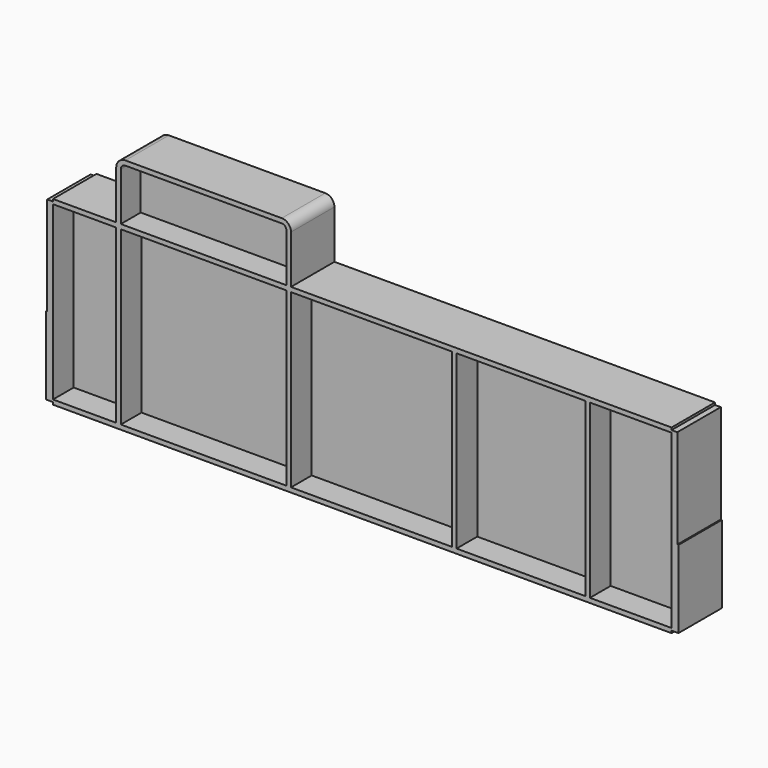
from build123d import *

# Parameters (mm, degrees)
F0_W      = 3492.5
F0_H      = 1000.252
F1_DEPTH  = 7.112
F3_DEPTH  = 149.987
F4_W      = 6.35
F4_H      = 558.8
F5_DEPTH  = 152.4
F6_W      = 69.6651035309
F6_H      = 32.1860781174
F6_W_2    = 61.0528284073
F6_H_2    = 46.4129915695
F6_W_3    = 67.1003156662
F6_H_3    = 41.8257090867
F6_W_4    = 72.7439218521
F6_H_4    = 49.2695767105
F7_DEPTH  = 299.975
F9_DEPTH  = 12.7
F10_DEPTH = 149.987
F8_W      = 25.4
F8_H      = 949.452
F11_DEPTH = 149.987


with BuildPart() as f1:
    # F0 (on Front) → F1 (new body, symmetric)
    with BuildSketch(Plane.XZ):
        with Locations((0, 500.126)):
            Rectangle(F0_W, F0_H)
    extrude(amount=F1_DEPTH, both=True)

    # F2 (on Front) → F3 (join, symmetric)
    with BuildSketch(Plane.XZ):
        Polygon((-1708.15, 12.7), (-1708.15, 0), (1708.15, 0), (1708.15, 12.7), (1708.15, 25.4), (-1708.15, 25.4), align=None)
        Polygon((-1746.25, 12.7), (-1708.15, 12.7), (-1708.15, 25.4), (-1708.15, 974.852), (-1708.15, 987.552), (-1746.25, 987.552), align=None)
        Polygon((1708.15, 25.4), (1708.15, 12.7), (1746.25, 12.7), (1746.25, 987.552), (1708.15, 987.552), (1708.15, 974.852), align=None)
        Polygon((-1708.15, 987.552), (-1708.15, 974.852), (1708.15, 974.852), (1708.15, 987.552), (1708.15, 1000.252), (-1708.15, 1000.252), align=None)
    extrude(amount=F3_DEPTH, both=True)

    # F4 (on Front) → F5 (cut, symmetric)
    with BuildSketch(Plane.XZ):
        with Locations((-1743.075, 720.852)):
            Rectangle(F4_W, F4_H)
        with Locations((1743.075, 720.852)):
            Rectangle(F4_W, F4_H)
    extrude(amount=F5_DEPTH, both=True, mode=Mode.SUBTRACT)

    # F6 (on face) → F7 (cut, through all)
    with BuildSketch(Plane.XZ.offset(149.987)):
        with Locations((-1742.9825517654, 1003.6450390587)):
            Rectangle(F6_W, F6_H)
        with Locations((1738.6764142036, 1010.7584957848)):
            Rectangle(F6_W_2, F6_H_2)
        with Locations((1741.7001578331, -8.2128545433)):
            Rectangle(F6_W_3, F6_H_3)
        with Locations((-1744.5219609261, -11.9347883552)):
            Rectangle(F6_W_4, F6_H_4)
    extrude(amount=-F7_DEPTH, mode=Mode.SUBTRACT)

    # F8 (on Front) → F9 (join, symmetric)
    with BuildSketch(Plane.XZ):
        with BuildLine():
            Line((-1333.5, 1266.952), (-1333.5, 974.852))
            Line((-1333.5, 974.852), (-419.1, 974.852))
            Line((-419.1, 974.852), (-419.1, 1266.952))
            ThreePointArc((-419.1, 1266.952), (-426.5394877579, 1284.9125122421), (-444.5, 1292.352))
            Line((-444.5, 1292.352), (-1308.1, 1292.352))
            ThreePointArc((-1308.1, 1292.352), (-1326.0605122421, 1284.9125122421), (-1333.5, 1266.952))
        make_face()
    extrude(amount=F9_DEPTH, both=True)

    # F8 (on Front) → F10 (join, symmetric)
    with BuildSketch(Plane.XZ):
        with BuildLine():
            Line((-1358.9, 1266.952), (-1358.9, 974.852))
            Line((-1358.9, 974.852), (-1333.5, 974.852))
            Line((-1333.5, 974.852), (-1333.5, 1266.952))
            Line((-1333.5, 1266.952), (-1333.5, 1310.9460905122))
            ThreePointArc((-1333.5, 1310.9460905122), (-1352.0940905122, 1292.352), (-1358.9, 1266.952))
        make_face()
        with BuildLine():
            Line((-419.1, 1266.952), (-419.1, 974.852))
            Line((-419.1, 974.852), (-393.7, 974.852))
            Line((-393.7, 974.852), (-393.7, 1266.952))
            ThreePointArc((-393.7, 1266.952), (-408.5789755157, 1302.8730244843), (-444.5, 1317.752))
            Line((-444.5, 1317.752), (-1308.1, 1317.752))
            ThreePointArc((-1308.1, 1317.752), (-1321.2480074912, 1316.0210319755), (-1333.5, 1310.9460905122))
            Line((-1333.5, 1310.9460905122), (-1333.5, 1266.952))
            ThreePointArc((-1333.5, 1266.952), (-1326.0605122421, 1284.9125122421), (-1308.1, 1292.352))
            Line((-1308.1, 1292.352), (-444.5, 1292.352))
            ThreePointArc((-444.5, 1292.352), (-426.5394877579, 1284.9125122421), (-419.1, 1266.952))
        make_face()
    extrude(amount=F10_DEPTH, both=True)

    # F8 (on Front) → F11 (join, symmetric)
    with BuildSketch(Plane.XZ):
        with Locations((-1346.2, 500.126)):
            Rectangle(F8_W, F8_H)
        with Locations((-406.4, 500.126)):
            Rectangle(F8_W, F8_H)
        with Locations((508, 500.126)):
            Rectangle(F8_W, F8_H)
        with Locations((1244.6, 500.126)):
            Rectangle(F8_W, F8_H)
    extrude(amount=F11_DEPTH, both=True)


solid = f1.part
